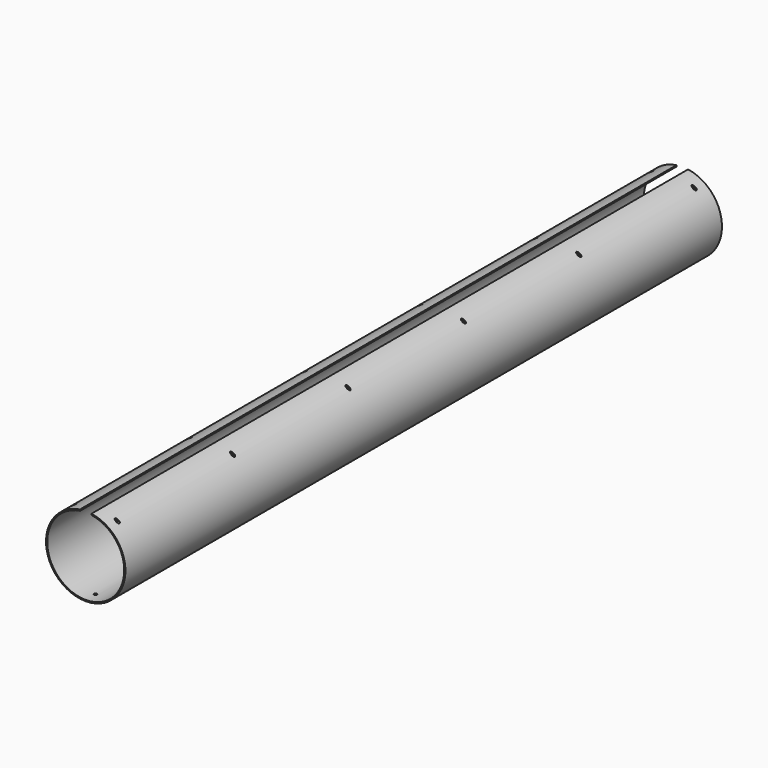
from build123d import *

# Parameters (mm, degrees)
F1_DEPTH = 1549.4
F2_R     = 3.175
F3_DEPTH = 127
F4_R     = 3.175
F5_DEPTH = 127


with BuildPart() as f1:
    # F0 (on Front) → F1 (new body)
    with BuildSketch(Plane.XZ):
        with BuildLine():
            ThreePointArc((11.636364, 79.149195), (0, -80), (-11.636364, 79.149195))
            Line((-11.636364, 79.149195), (-12, 81.622607))
            ThreePointArc((-12, 81.622607), (0, -82.5), (12, 81.622607))
            Line((12, 81.622607), (11.636364, 79.149195))
        make_face()
    extrude(amount=F1_DEPTH)

    # F2 (on Top) → F3 (cut, symmetric)
    with BuildSketch(Plane.XY):
        with Locations((0, -25.4)):
            Circle(F2_R)
        with Locations((0, -1524)):
            Circle(F2_R)
    extrude(amount=F3_DEPTH, both=True, mode=Mode.SUBTRACT)

    # F4 (on Right) → F5 (cut, symmetric)
    with BuildSketch(Plane.YZ):
        with Locations((-25.4, 68.922607)):
            Circle(F4_R)
        with Locations((-325.12, 68.922607)):
            Circle(F4_R)
        with Locations((-624.84, 68.922607)):
            Circle(F4_R)
        with Locations((-924.56, 68.922607)):
            Circle(F4_R)
        with Locations((-1224.28, 68.922607)):
            Circle(F4_R)
        with Locations((-1524, 68.922607)):
            Circle(F4_R)
    extrude(amount=F5_DEPTH, both=True, mode=Mode.SUBTRACT)


solid = f1.part
